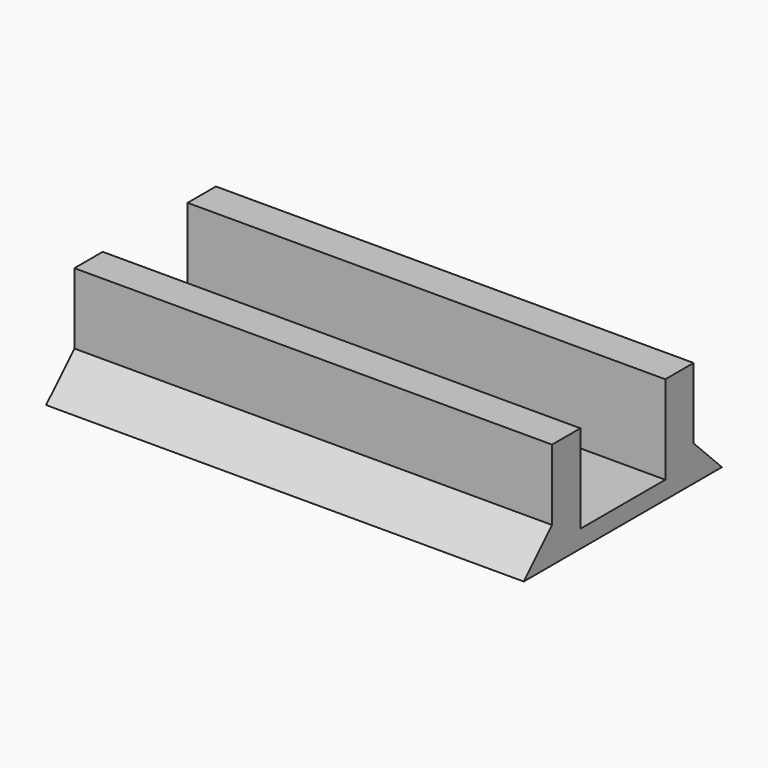
from build123d import *

# Parameters (mm, degrees)
PAD_DEPTH = 27


with BuildPart() as part:
    # Sketch → Pad (new body)
    with BuildSketch(Plane.YZ):
        Polygon((0, 0), (0, 1), (3, 1), (3, 6), (5, 6), (5, 2), (7, 0), align=None)
    pad = extrude(amount=PAD_DEPTH)

    # Mirrored: Pad across Sketch V_Axis
    add(pad.mirror(Plane(origin=(0, 0, 0), x_dir=(1, 0, 0), z_dir=(0, 1, 0))))


solid = part.part
